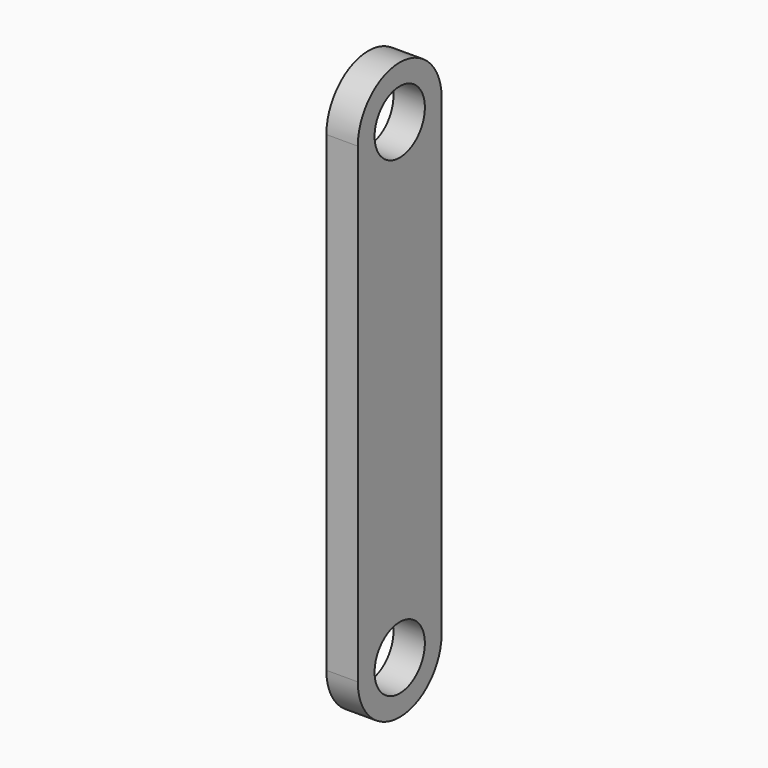
from build123d import *

# Parameters (mm, degrees)
F0_R     = 3
F1_DEPTH = 3


with BuildPart() as f1:
    # F0 (on Right) → F1 (new body)
    with BuildSketch(Plane.YZ):
        with BuildLine():
            ThreePointArc((5, 0), (0, 5), (-5, 0))
            Line((-5, 0), (-5, -45))
            ThreePointArc((-5, -45), (0, -50), (5, -45))
            Line((5, -45), (5, 0))
        make_face()
        with Locations((0, -45)):
            Circle(F0_R, mode=Mode.SUBTRACT)
        Circle(F0_R, mode=Mode.SUBTRACT)
    extrude(amount=F1_DEPTH)


solid = f1.part
